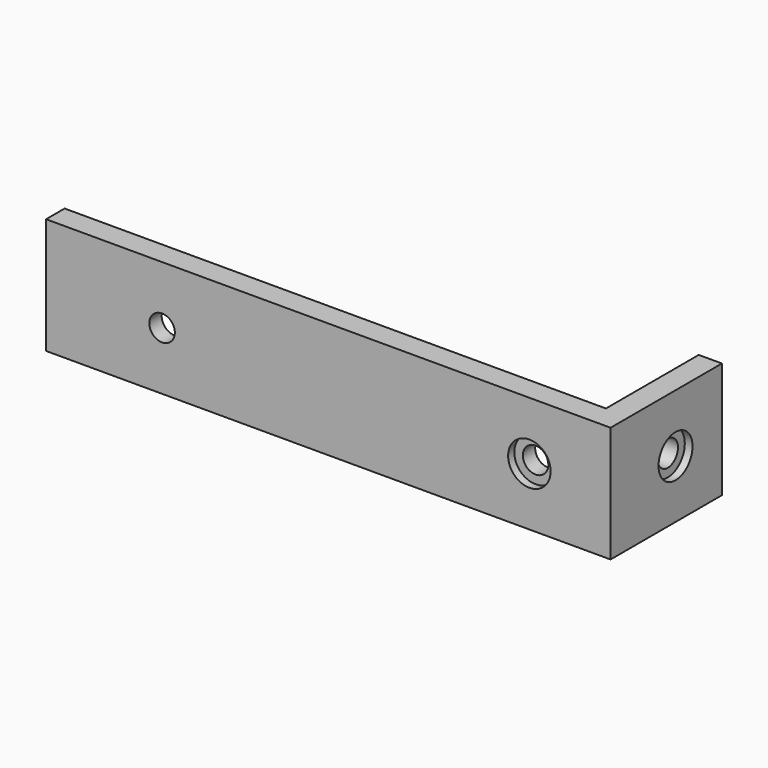
from build123d import *

# Parameters (mm, degrees)
F0_W      = 70
F0_H      = 3
F1_DEPTH  = 15
F2_R      = 1.65
F3_DEPTH  = 25
F4_R      = 2.75
F5_DEPTH  = 1
F6_R      = 1.65
F7_DEPTH  = 3
F8_R      = 1.65
F9_DEPTH  = 3
F8_R_2    = 2.75
F10_DEPTH = 1
F11_R     = 1.65
F12_DEPTH = 1


with BuildPart() as f1:
    # F0 (on Top) → F1 (new body)
    with BuildSketch(Plane.XY):
        Rectangle(F0_W, F0_H)
        Polygon((35, 16.5), (35, 1.5), (35, -1.5), (38, -1.5), (38, 16.5), align=None)
    extrude(amount=F1_DEPTH)

    # F2 (on face) → F3 (cut)
    with BuildSketch(Plane(origin=(35, 0, 0), x_dir=(0, -1, 0), z_dir=(-1, 0, 0))):
        with Locations((-9, 7.5)):
            Circle(F2_R)
    extrude(amount=-F3_DEPTH, mode=Mode.SUBTRACT)

    # F4 (on face) → F5 (cut)
    with BuildSketch(Plane.YZ.offset(38)):
        with Locations((9, 7.5)):
            Circle(F4_R)
    extrude(amount=-F5_DEPTH, mode=Mode.SUBTRACT)

    # F6 (on face) → F7 (cut, through all)
    with BuildSketch(Plane.XZ.offset(1.5)):
        with Locations((-20, 7.5)):
            Circle(F6_R)
    extrude(amount=-F7_DEPTH, mode=Mode.SUBTRACT)

    # F8 (on face) → F9 (cut, through all)
    with BuildSketch(Plane.XZ.offset(1.5)):
        with Locations((27.5, 7.5)):
            Circle(F8_R)
    extrude(amount=-F9_DEPTH, mode=Mode.SUBTRACT)

    # F8 (on face) → F10 (cut)
    with BuildSketch(Plane.XZ.offset(1.5)):
        with Locations((27.5, 7.5)):
            Circle(F8_R_2)
        with Locations((27.5, 7.5)):
            Circle(F8_R, mode=Mode.SUBTRACT)
    extrude(amount=-F10_DEPTH, mode=Mode.SUBTRACT)

    # F11 (on face) → F12 (cut)
    with BuildSketch(Plane(origin=(0, 1.5, 0), x_dir=(-1, 0, 0), z_dir=(0, 1, 0))):
        Polygon((21.674316, 10.4), (18.325684, 10.4), (16.651368, 7.5), (18.325684, 4.6), (21.674316, 4.6), (23.348632, 7.5), align=None)
        with Locations((20, 7.5)):
            Circle(F11_R, mode=Mode.SUBTRACT)
    extrude(amount=-F12_DEPTH, mode=Mode.SUBTRACT)


solid = f1.part
